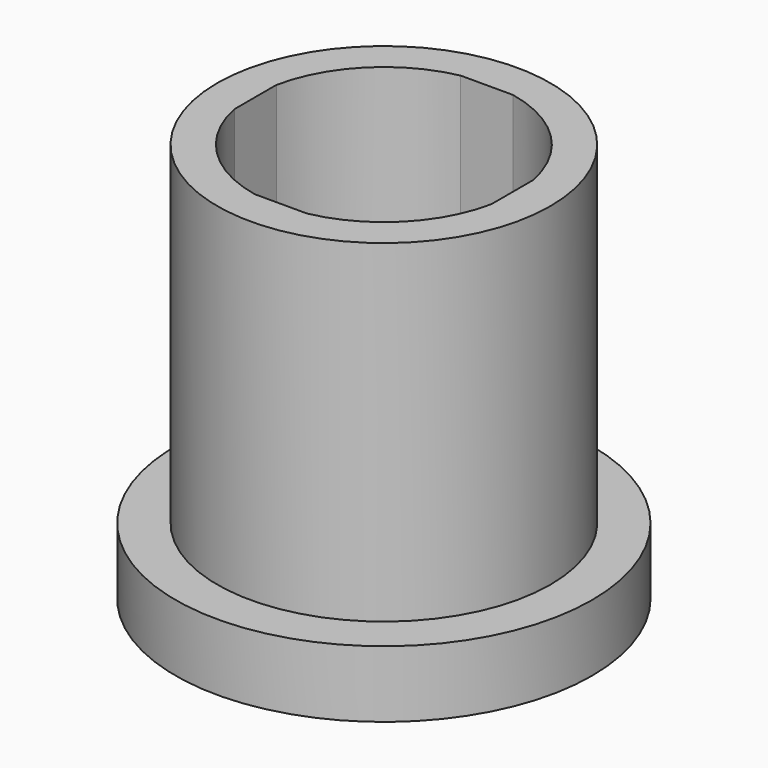
from build123d import *

# Parameters (mm, degrees)
F0_R     = 7.9375
F1_DEPTH = 2.54
F2_R     = 6.35
F3_DEPTH = 12.7
F5_DEPTH = 12.7


with BuildPart() as f1:
    # F0 (on Top) → F1 (new body)
    with BuildSketch(Plane.XY):
        Circle(F0_R)
    extrude(amount=F1_DEPTH)

    # F2 (on face) → F3 (join)
    with BuildSketch(Plane.XY.offset(2.54)):
        Circle(F2_R)
    extrude(amount=F3_DEPTH)

    # F4 (on face) → F5 (cut, through all)
    with BuildSketch(Plane.XY.offset(15.24)):
        with BuildLine():
            Line((1, 4.898979), (-1, 4.898979))
            ThreePointArc((-1, 4.898979), (-3.535534, 3.535534), (-4.898979, 1))
            Line((-4.898979, 1), (-4.898979, -1))
            ThreePointArc((-4.898979, -1), (-3.535534, -3.535534), (-1, -4.898979))
            Line((-1, -4.898979), (1, -4.898979))
            ThreePointArc((1, -4.898979), (3.535534, -3.535534), (4.898979, -1))
            Line((4.898979, -1), (4.898979, 1))
            ThreePointArc((4.898979, 1), (3.535534, 3.535534), (1, 4.898979))
        make_face()
    extrude(amount=-F5_DEPTH, mode=Mode.SUBTRACT)


solid = f1.part
